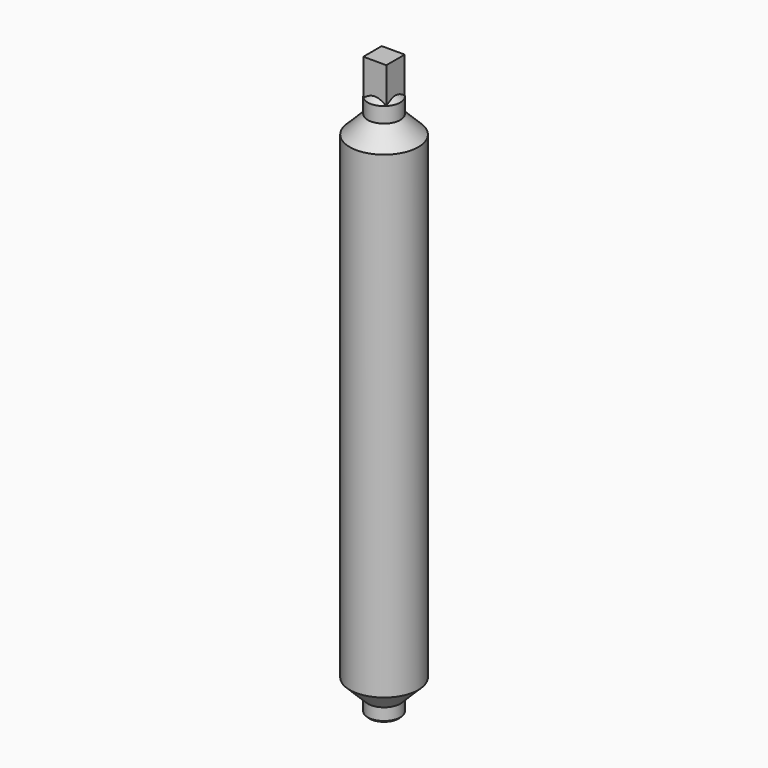
from build123d import *

# Parameters (mm, degrees)
F2_SIZE       = 1.5
F3_W          = 6.717514
F3_H          = 6.717514
F4_DEPTH      = 9
F4_DEPTH_BACK = 3
F5_SIZE       = 0.5


with BuildPart() as f1:
    # F0 (on Front) → F1 (revolve)
    with BuildSketch(Plane.XZ):
        Polygon((0, 80), (0, -80), (4.75, -80), (4.75, -76), (10, -70.75), (10, 68.75), (4.75, 74), (4.75, 80), align=None)
    revolve(axis=Axis((0, 0, 0), (0, 0, -1)))

    # F2
    f2_edges = [f1.edges().sort_by_distance(p)[0] for p in [
        (-4.75, 0, 80),
    ]]
    chamfer(f2_edges, length=F2_SIZE)

    # F3 (on face) → F4 (join, two sides)
    with BuildSketch(Plane.XY.offset(80)) as f4_sk:
        Rectangle(F3_W, F3_H)
    extrude(amount=F4_DEPTH)
    extrude(f4_sk.sketch, amount=-F4_DEPTH_BACK)

    # F5
    f5_edges = [f1.edges().sort_by_distance(p)[0] for p in [
        (-4.75, 0, -80),
    ]]
    chamfer(f5_edges, length=F5_SIZE)


solid = f1.part
